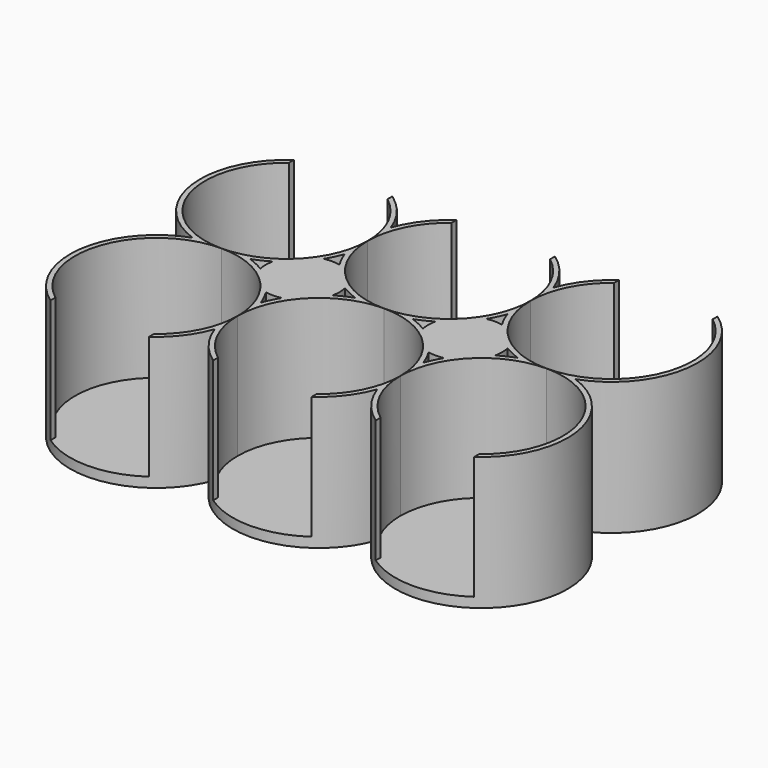
from build123d import *

# Parameters (mm, degrees)
PAD_DEPTH       = 27
SKETCH001_R     = 16.5
POCKET_DEPTH    = 25
SKETCH002_R     = 16.5
POCKET001_DEPTH = 25
SKETCH003_R     = 16.5
POCKET002_DEPTH = 25
SKETCH004_R     = 16.5
POCKET003_DEPTH = 25
SKETCH005_R     = 16.5
POCKET004_DEPTH = 25
SKETCH006_R     = 16.5
POCKET005_DEPTH = 25
SKETCH007_R     = 5.125
POCKET006_DEPTH = 1.15
SKETCH008_R     = 5.125
POCKET007_DEPTH = 1.15
SKETCH009_W     = 20
SKETCH009_H     = 20
POCKET008_DEPTH = 25


with BuildPart() as part:
    # Sketch → Pad (new body)
    with BuildSketch(Plane.XY):
        with BuildLine():
            ThreePointArc((71.830952, -16.5), (78.374369, 12.374369), (49.5, 5.830952))
            ThreePointArc((49.5, 5.830952), (33, 17.5), (16.5, 5.830952))
            ThreePointArc((16.5, 5.830952), (-12.374369, 12.374369), (-5.830952, -16.5))
            ThreePointArc((-5.830952, -16.5), (-12.374369, -45.374369), (16.5, -38.830952))
            ThreePointArc((16.5, -38.830952), (33, -50.5), (49.5, -38.830952))
            ThreePointArc((49.5, -38.830952), (78.374369, -45.374369), (71.830952, -16.5))
        make_face()
        with BuildLine():
            ThreePointArc((5.830952, -16.5), (7.543698, -15.790586), (9.171788, -14.903969))
            ThreePointArc((9.171788, -14.903969), (9, -16.5), (9.171788, -18.096031))
            ThreePointArc((9.171788, -18.096031), (7.543698, -17.209414), (5.830952, -16.5))
        make_face(mode=Mode.SUBTRACT)
        with BuildLine():
            ThreePointArc((47.903969, -9.171788), (48.790586, -7.543698), (49.5, -5.830952))
            ThreePointArc((49.5, -5.830952), (50.209414, -7.543698), (51.096031, -9.171788))
            ThreePointArc((51.096031, -9.171788), (49.5, -9), (47.903969, -9.171788))
        make_face(mode=Mode.SUBTRACT)
        with BuildLine():
            ThreePointArc((18.096031, -23.828212), (17.209414, -25.456302), (16.5, -27.169048))
            ThreePointArc((16.5, -27.169048), (15.790586, -25.456302), (14.903969, -23.828212))
            ThreePointArc((14.903969, -23.828212), (16.5, -24), (18.096031, -23.828212))
        make_face(mode=Mode.SUBTRACT)
        with BuildLine():
            ThreePointArc((47.903969, -23.828212), (49.5, -24), (51.096031, -23.828212))
            ThreePointArc((51.096031, -23.828212), (50.209414, -25.456302), (49.5, -27.169048))
            ThreePointArc((49.5, -27.169048), (48.790586, -25.456302), (47.903969, -23.828212))
        make_face(mode=Mode.SUBTRACT)
        with BuildLine():
            ThreePointArc((14.903969, -9.171788), (15.790586, -7.543698), (16.5, -5.830952))
            ThreePointArc((16.5, -5.830952), (17.209414, -7.543698), (18.096031, -9.171788))
            ThreePointArc((18.096031, -9.171788), (16.5, -9), (14.903969, -9.171788))
        make_face(mode=Mode.SUBTRACT)
        with BuildLine():
            ThreePointArc((23.828212, -18.096031), (24, -16.5), (23.828212, -14.903969))
            ThreePointArc((23.828212, -14.903969), (25.456302, -15.790586), (27.169048, -16.5))
            ThreePointArc((27.169048, -16.5), (25.456302, -17.209414), (23.828212, -18.096031))
        make_face(mode=Mode.SUBTRACT)
        with BuildLine():
            ThreePointArc((42.171788, -18.096031), (40.543698, -17.209414), (38.830952, -16.5))
            ThreePointArc((38.830952, -16.5), (40.543698, -15.790586), (42.171788, -14.903969))
            ThreePointArc((42.171788, -14.903969), (42, -16.5), (42.171788, -18.096031))
        make_face(mode=Mode.SUBTRACT)
        with BuildLine():
            ThreePointArc((56.828212, -18.096031), (57, -16.5), (56.828212, -14.903969))
            ThreePointArc((56.828212, -14.903969), (58.456302, -15.790586), (60.169048, -16.5))
            ThreePointArc((60.169048, -16.5), (58.456302, -17.209414), (56.828212, -18.096031))
        make_face(mode=Mode.SUBTRACT)
    extrude(amount=PAD_DEPTH)

    # Sketch001 (on Face32 of Pad) → Pocket (cut)
    with BuildSketch(Plane.XY.offset(27)):
        Circle(SKETCH001_R)
    extrude(amount=-POCKET_DEPTH, mode=Mode.SUBTRACT)

    # Sketch002 (on Face5 of Pocket) → Pocket001 (cut)
    with BuildSketch(Plane.XY.offset(27)):
        with Locations((33, 0)):
            Circle(SKETCH002_R)
    extrude(amount=-POCKET001_DEPTH, mode=Mode.SUBTRACT)

    # Sketch003 (on Face5 of Pocket001) → Pocket002 (cut)
    with BuildSketch(Plane.XY.offset(27)):
        with Locations((66, 0)):
            Circle(SKETCH003_R)
    extrude(amount=-POCKET002_DEPTH, mode=Mode.SUBTRACT)

    # Sketch004 (on Face5 of Pocket002) → Pocket003 (cut)
    with BuildSketch(Plane.XY.offset(27)):
        with Locations((0, -33)):
            Circle(SKETCH004_R)
    extrude(amount=-POCKET003_DEPTH, mode=Mode.SUBTRACT)

    # Sketch005 (on Face5 of Pocket003) → Pocket004 (cut)
    with BuildSketch(Plane.XY.offset(27)):
        with Locations((33, -33)):
            Circle(SKETCH005_R)
    extrude(amount=-POCKET004_DEPTH, mode=Mode.SUBTRACT)

    # Sketch006 (on Face5 of Pocket004) → Pocket005 (cut)
    with BuildSketch(Plane.XY.offset(27)):
        with Locations((66, -33)):
            Circle(SKETCH006_R)
    extrude(amount=-POCKET005_DEPTH, mode=Mode.SUBTRACT)

    # Sketch007 (on Face4 of Pocket005) → Pocket006 (cut)
    with BuildSketch(Plane(origin=(0, 0, 0), x_dir=(1, 0, 0), z_dir=(0, 0, -1))):
        with Locations((16.5, 16.5)):
            Circle(SKETCH007_R)
    extrude(amount=-POCKET006_DEPTH, mode=Mode.SUBTRACT)

    # Sketch008 (on Face4 of Pocket006) → Pocket007 (cut)
    with BuildSketch(Plane(origin=(0, 0, 0), x_dir=(1, 0, 0), z_dir=(0, 0, -1))):
        with Locations((49.5, 16.5)):
            Circle(SKETCH008_R)
    extrude(amount=-POCKET007_DEPTH, mode=Mode.SUBTRACT)

    # Sketch009 (on Face43 of Pocket007) → Pocket008 (cut)
    with BuildSketch(Plane.XY.offset(27)):
        with Locations((0, 10)):
            Rectangle(SKETCH009_W, SKETCH009_H)
        with Locations((33, 10)):
            Rectangle(SKETCH009_W, SKETCH009_H)
        with Locations((66, 10)):
            Rectangle(SKETCH009_W, SKETCH009_H)
        with Locations((0, -45)):
            Rectangle(SKETCH009_W, SKETCH009_H)
        with Locations((33, -45)):
            Rectangle(SKETCH009_W, SKETCH009_H)
        with Locations((66, -45)):
            Rectangle(SKETCH009_W, SKETCH009_H)
    extrude(amount=-POCKET008_DEPTH, mode=Mode.SUBTRACT)


solid = part.part
